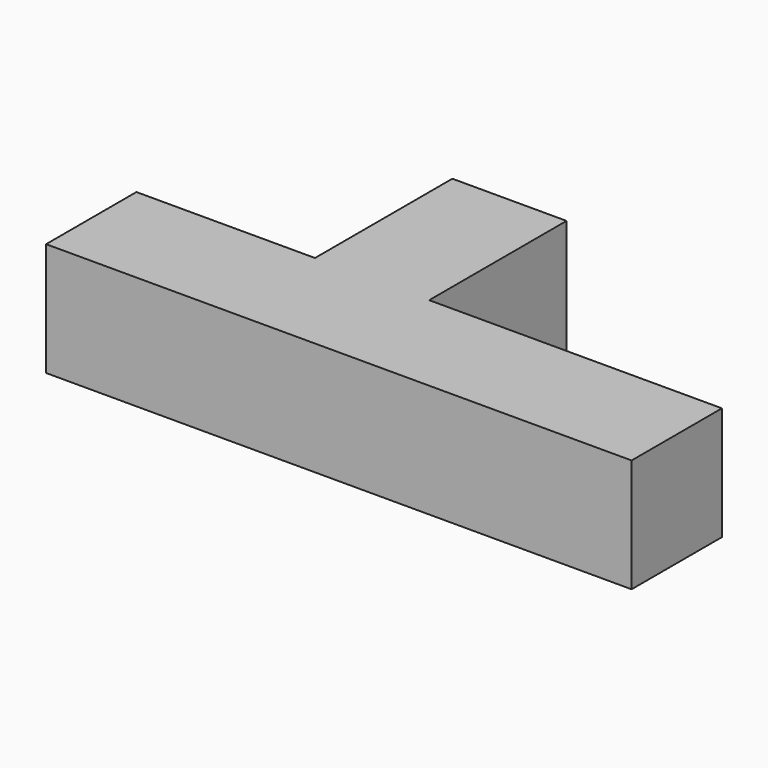
from build123d import *

# Parameters (mm, degrees)
F0_W     = 10.324054
F0_H     = 1.99107
F1_DEPTH = 2
F2_W     = 2.013387
F2_H     = 4.023274
F3_DEPTH = 2


with BuildPart() as f1:
    # F0 (on Top) → F1 (new body)
    with BuildSketch(Plane.XY):
        Rectangle(F0_W, F0_H)
    extrude(amount=F1_DEPTH)

    # F2 (on Top) → F3 (join)
    with BuildSketch(Plane.XY):
        with Locations((-1.006693, 2.011637)):
            Rectangle(F2_W, F2_H)
    extrude(amount=F3_DEPTH)


solid = f1.part
